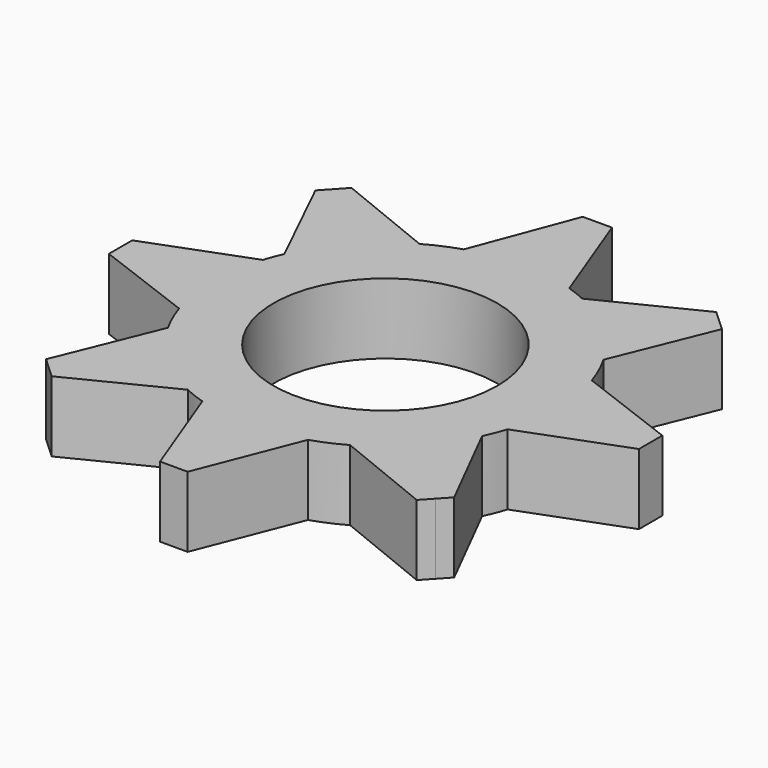
from build123d import *

# Parameters (mm, degrees)
F0_R     = 11.0998
F1_DEPTH = 3.500006


with BuildPart() as f1:
    # F0 (on Top) → F1 (new body, symmetric)
    with BuildSketch(Plane.XY):
        with BuildLine():
            ThreePointArc((16.271569, -5.19747), (16.877803, -2.630099), (17.0815, 0))
            ThreePointArc((17.0815, 0), (16.870392, 2.677224), (16.242285, 5.288273))
            ThreePointArc((16.242285, 5.288273), (15.598131, 6.962468), (14.781953, 8.559878))
            ThreePointArc((14.781953, 8.559878), (13.301146, 10.717143), (11.508227, 12.62293))
            ThreePointArc((11.508227, 12.62293), (9.415873, 14.251982), (7.096599, 15.537565))
            ThreePointArc((7.096599, 15.537565), (6.173747, 15.926785), (5.229669, 16.261249))
            ThreePointArc((5.229669, 16.261249), (2.646224, 16.875282), (-0.00117, 17.0815))
            ThreePointArc((-0.00117, 17.0815), (-2.64792, 16.875016), (-5.23071, 16.260914))
            ThreePointArc((-5.23071, 16.260914), (-6.892928, 15.628985), (-8.480441, 14.827669))
            ThreePointArc((-8.480441, 14.827669), (-10.669635, 13.339285), (-12.602568, 11.530521))
            ThreePointArc((-12.602568, 11.530521), (-14.282908, 9.368894), (-15.5963, 6.966567))
            ThreePointArc((-15.5963, 6.966567), (-15.966888, 6.069276), (-16.285902, 5.152381))
            ThreePointArc((-16.285902, 5.152381), (-16.885215, 2.582085), (-17.081427, -0.049854))
            ThreePointArc((-17.081427, -0.049854), (-16.868466, -2.689332), (-16.25011, -5.264179))
            ThreePointArc((-16.25011, -5.264179), (-15.657413, -6.828109), (-14.914614, -8.32658))
            ThreePointArc((-14.914614, -8.32658), (-11.631067, -12.509833), (-7.220151, -15.480538))
            ThreePointArc((-7.220151, -15.480538), (-6.183661, -15.922939), (-5.120254, -16.296031))
            ThreePointArc((-5.120254, -16.296031), (-2.590076, -16.883991), (0, -17.0815))
            ThreePointArc((0, -17.0815), (2.681535, -16.869707), (5.296573, -16.23958))
            ThreePointArc((5.296573, -16.23958), (6.8801, -15.634637), (8.395869, -14.875719))
            ThreePointArc((8.395869, -14.875719), (10.58615, -13.405636), (12.523967, -11.615847))
            ThreePointArc((12.523967, -11.615847), (14.147088, -9.57275), (15.44008, -7.306269))
            ThreePointArc((15.44008, -7.306269), (15.890844, -6.265677), (16.271569, -5.19747))
        make_face()
        Circle(F0_R, mode=Mode.SUBTRACT)
        with BuildLine():
            ThreePointArc((16.242285, 5.288273), (16.870392, 2.677224), (17.0815, 0))
            ThreePointArc((17.0815, 0), (16.877803, -2.630099), (16.271569, -5.19747))
            Line((16.271569, -5.19747), (26.284047, -1.418636))
            Line((26.284047, -1.418636), (26.284047, 0.02976))
            Line((26.284047, 0.02976), (26.284047, 1.478156))
            Line((26.284047, 1.478156), (16.242285, 5.288273))
        make_face()
        with BuildLine():
            ThreePointArc((11.508227, 12.62293), (13.301146, 10.717143), (14.781953, 8.559878))
            Line((14.781953, 8.559878), (18.7359, 18.305744))
            Line((18.7359, 18.305744), (17.672478, 19.289097))
            Line((17.672478, 19.289097), (11.508227, 12.62293))
        make_face()
        with BuildLine():
            Line((20.172912, -16.689546), (15.44008, -7.306269))
            ThreePointArc((15.44008, -7.306269), (14.147088, -9.57275), (12.523967, -11.615847))
            Line((12.523967, -11.615847), (19.176301, -17.767306))
            Line((19.176301, -17.767306), (20.172912, -16.689546))
        make_face()
        with BuildLine():
            ThreePointArc((7.096599, 15.537565), (9.415873, 14.251982), (11.508227, 12.62293))
            Line((11.508227, 12.62293), (17.672478, 19.289097))
            Line((17.672478, 19.289097), (16.609056, 20.272451))
            Line((16.609056, 20.272451), (7.096599, 15.537565))
        make_face()
        with BuildLine():
            Line((19.176301, -17.767306), (12.523967, -11.615847))
            ThreePointArc((12.523967, -11.615847), (10.58615, -13.405636), (8.395869, -14.875719))
            Line((8.395869, -14.875719), (18.17969, -18.845065))
            Line((18.17969, -18.845065), (19.176301, -17.767306))
        make_face()
        with BuildLine():
            ThreePointArc((-0.00117, 17.0815), (2.646224, 16.875282), (5.229669, 16.261249))
            Line((5.229669, 16.261249), (1.447226, 26.283288))
            Line((1.447226, 26.283288), (-0.00117, 26.283288))
            Line((-0.00117, 26.283288), (-0.00117, 17.0815))
        make_face()
        with BuildLine():
            Line((1.369952, -26.232913), (5.296573, -16.23958))
            ThreePointArc((5.296573, -16.23958), (2.681535, -16.869707), (0, -17.0815))
            Line((0, -17.0815), (0, -26.232913))
            Line((0, -26.232913), (1.369952, -26.232913))
        make_face()
        with BuildLine():
            ThreePointArc((-5.23071, 16.260914), (-2.64792, 16.875016), (-0.00117, 17.0815))
            Line((-0.00117, 17.0815), (-0.00117, 26.283288))
            Line((-0.00117, 26.283288), (-1.449566, 26.283288))
            Line((-1.449566, 26.283288), (-5.23071, 16.260914))
        make_face()
        with BuildLine():
            Line((0, -26.232913), (0, -17.0815))
            ThreePointArc((0, -17.0815), (-2.590076, -16.883991), (-5.120254, -16.296031))
            Line((-5.120254, -16.296031), (-1.369952, -26.232913))
            Line((-1.369952, -26.232913), (0, -26.232913))
        make_face()
        with BuildLine():
            ThreePointArc((-12.602568, 11.530521), (-10.669635, 13.339285), (-8.480441, 14.827669))
            Line((-8.480441, 14.827669), (-18.465401, 18.877941))
            Line((-18.465401, 18.877941), (-19.425467, 17.839703))
            Line((-19.425467, 17.839703), (-12.602568, 11.530521))
        make_face()
        with BuildLine():
            Line((-16.860262, -20.306055), (-7.220151, -15.480538))
            ThreePointArc((-7.220151, -15.480538), (-11.631067, -12.509833), (-14.914614, -8.32658))
            Line((-14.914614, -8.32658), (-18.987106, -18.339347))
            Line((-18.987106, -18.339347), (-17.923684, -19.322701))
            Line((-17.923684, -19.322701), (-16.860262, -20.306055))
        make_face()
        with BuildLine():
            ThreePointArc((-15.5963, 6.966567), (-14.282908, 9.368894), (-12.602568, 11.530521))
            Line((-12.602568, 11.530521), (-19.425467, 17.839703))
            Line((-19.425467, 17.839703), (-20.385533, 16.801465))
            Line((-20.385533, 16.801465), (-15.5963, 6.966567))
        make_face()
        with BuildLine():
            Line((-26.232155, -1.49825), (-16.25011, -5.264179))
            ThreePointArc((-16.25011, -5.264179), (-16.868466, -2.689332), (-17.081427, -0.049854))
            Line((-17.081427, -0.049854), (-26.232155, -0.049854))
            Line((-26.232155, -0.049854), (-26.232155, -1.49825))
        make_face()
        with BuildLine():
            ThreePointArc((-17.081427, -0.049854), (-16.885215, 2.582085), (-16.285902, 5.152381))
            Line((-16.285902, 5.152381), (-26.232155, 1.398542))
            Line((-26.232155, 1.398542), (-26.232155, -0.049854))
            Line((-26.232155, -0.049854), (-17.081427, -0.049854))
        make_face()
    extrude(amount=F1_DEPTH, both=True)


solid = f1.part
